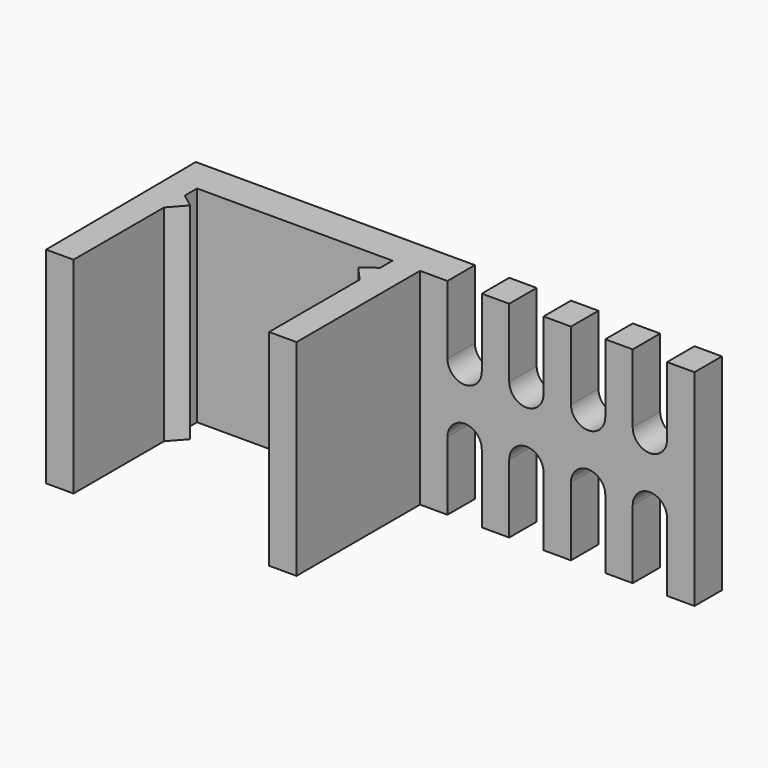
from build123d import *

# Parameters (mm, degrees)
F1_DEPTH = 60
F3_DEPTH = 11


with BuildPart() as f1:
    # F0 (on Top) → F1 (new body)
    with BuildSketch(Plane.XY):
        Polygon((-19.7963, 32.338076), (-19.423427, -22.66066), (-11.423427, -22.66066), (-11.423427, 10.33934), (-7.423427, 14.838076), (-11.392919, 17.838179), (-11.423427, 22.338076), (45.576573, 22.338076), (45.576573, 17.838076), (41.576573, 14.838076), (45.576573, 10.338076), (45.576573, -22.661924), (53.576573, -22.661924), (53.576573, 22.338076), (133.576573, 22.338076), (133.576573, 32.338076), align=None)
    extrude(amount=F1_DEPTH)

    # F2 (on face) → F3 (cut)
    with BuildSketch(Plane(origin=(0, 32.338076, 0), x_dir=(-1, 0, 0), z_dir=(0, 1, 0))):
        with BuildLine():
            Line((-115.576573, 60), (-125.576573, 60))
            Line((-125.576573, 60), (-125.576573, 40))
            ThreePointArc((-125.576573, 40), (-120.576573, 35), (-115.576573, 40))
            Line((-115.576573, 40), (-115.576573, 60))
        make_face()
        with BuildLine():
            Line((-97.576573, 60), (-107.576573, 60))
            Line((-107.576573, 60), (-107.576573, 40))
            ThreePointArc((-107.576573, 40), (-102.576573, 35), (-97.576573, 40))
            Line((-97.576573, 40), (-97.576573, 60))
        make_face()
        with BuildLine():
            Line((-79.576573, 60), (-89.576573, 60))
            Line((-89.576573, 60), (-89.576573, 40))
            ThreePointArc((-89.576573, 40), (-84.576573, 35), (-79.576573, 40))
            Line((-79.576573, 40), (-79.576573, 60))
        make_face()
        with BuildLine():
            Line((-61.576573, 60), (-71.576573, 60))
            Line((-71.576573, 60), (-71.576573, 40))
            ThreePointArc((-71.576573, 40), (-66.576573, 35), (-61.576573, 40))
            Line((-61.576573, 40), (-61.576573, 60))
        make_face()
        with BuildLine():
            Line((-89.576573, 0), (-79.576573, 0))
            Line((-79.576573, 0), (-79.576573, 20))
            ThreePointArc((-79.576573, 20), (-84.576573, 25), (-89.576573, 20))
            Line((-89.576573, 20), (-89.576573, 0))
        make_face()
        with BuildLine():
            Line((-71.576573, 20), (-71.576573, 0))
            Line((-71.576573, 0), (-61.576573, 0))
            Line((-61.576573, 0), (-61.576573, 20))
            ThreePointArc((-61.576573, 20), (-66.576573, 25), (-71.576573, 20))
        make_face()
        with BuildLine():
            Line((-107.576573, 0), (-97.576573, 0))
            Line((-97.576573, 0), (-97.576573, 20))
            ThreePointArc((-97.576573, 20), (-102.576573, 25), (-107.576573, 20))
            Line((-107.576573, 20), (-107.576573, 0))
        make_face()
        with BuildLine():
            Line((-125.576573, 20), (-125.576573, 0))
            Line((-125.576573, 0), (-115.576573, 0))
            Line((-115.576573, 0), (-115.576573, 20))
            ThreePointArc((-115.576573, 20), (-120.576573, 25), (-125.576573, 20))
        make_face()
    extrude(amount=-F3_DEPTH, mode=Mode.SUBTRACT)


solid = f1.part
